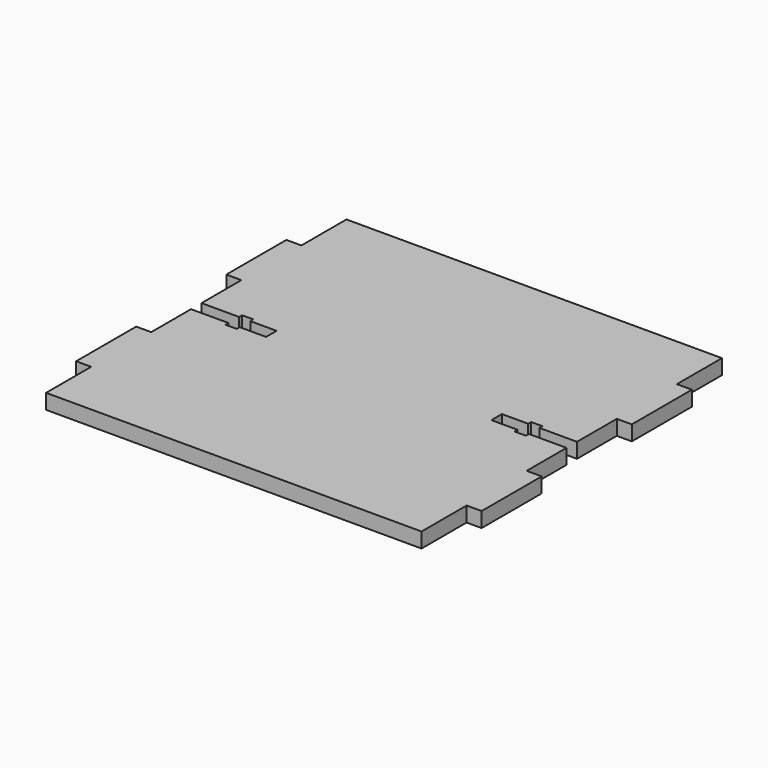
from build123d import *

# Parameters (mm, degrees)
F1_DEPTH = 4


with BuildPart() as f1:
    # F0 (on Top) → F1 (new body)
    with BuildSketch(Plane.XY):
        Polygon((-50, -50), (50, -50), (50, -35), (54, -35), (54, -15), (50, -15), (50, -1.75), (40, -1.75), (40, -2.75), (37, -2.75), (37, -1.75), (30, -1.75), (30, 1.75), (37, 1.75), (37, 2.75), (40, 2.75), (40, 1.75), (50, 1.75), (50, 15), (54, 15), (54, 35), (50, 35), (50, 50), (-50, 50), (-50, 35), (-54, 35), (-54, 15), (-50, 15), (-50, 1.75), (-40, 1.75), (-40, 2.75), (-37, 2.75), (-37, 1.75), (-30, 1.75), (-30, -1.75), (-37, -1.75), (-37, -2.75), (-40, -2.75), (-40, -1.75), (-50, -1.75), (-50, -15), (-54, -15), (-54, -35), (-50, -35), align=None)
    extrude(amount=F1_DEPTH)


solid = f1.part
